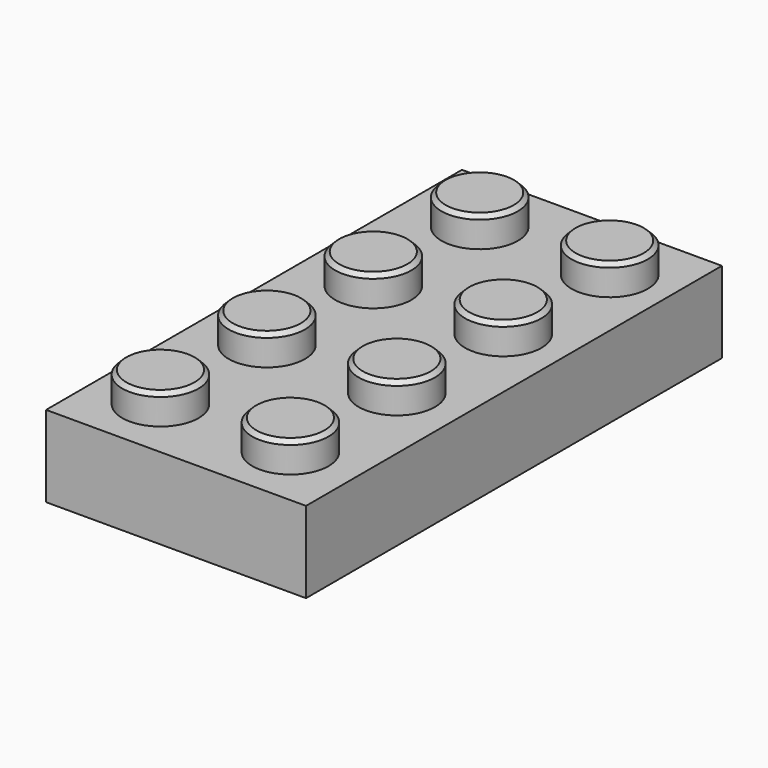
from build123d import *

# Parameters (mm, degrees)
F0_W     = 16.002
F0_H     = 32.004
F1_DEPTH = 5.0038
F2_R     = 2.3495
F3_DEPTH = 1.8542
F4_SIZE  = 0.254


with BuildPart() as f1:
    # F0 (on Top) → F1 (new body)
    with BuildSketch(Plane.XY):
        with Locations((-8.001, 16.002)):
            Rectangle(F0_W, F0_H)
    extrude(amount=F1_DEPTH)

    # F2 (on face) → F3 (join)
    with BuildSketch(Plane.XY.offset(5.0038)):
        with Locations((-12.0904, 3.9116)):
            Circle(F2_R)
        with Locations((-11.93851, 11.911158)):
            Circle(F2_R)
        with Locations((-11.634729, 27.910274)):
            Circle(F2_R)
        with Locations((-4.0894, 3.9116)):
            Circle(F2_R)
        with Locations((-3.93751, 11.911158)):
            Circle(F2_R)
        with Locations((-3.785619, 19.910716)):
            Circle(F2_R)
        with Locations((-11.786619, 19.910716)):
            Circle(F2_R)
        with Locations((-3.633729, 27.910274)):
            Circle(F2_R)
    extrude(amount=F3_DEPTH)

    # F4
    f4_edges = [f1.edges().sort_by_distance(p)[0] for p in [
        (-14.4399, 3.9116, 6.858),
        (-14.28801, 11.911158, 6.858),
        (-14.136119, 19.910716, 6.858),
        (-13.984229, 27.910274, 6.858),
        (-5.983229, 27.910274, 6.858),
        (-6.135119, 19.910716, 6.858),
        (-6.28701, 11.911158, 6.858),
        (-6.4389, 3.9116, 6.858),
    ]]
    chamfer(f4_edges, length=F4_SIZE)


solid = f1.part
